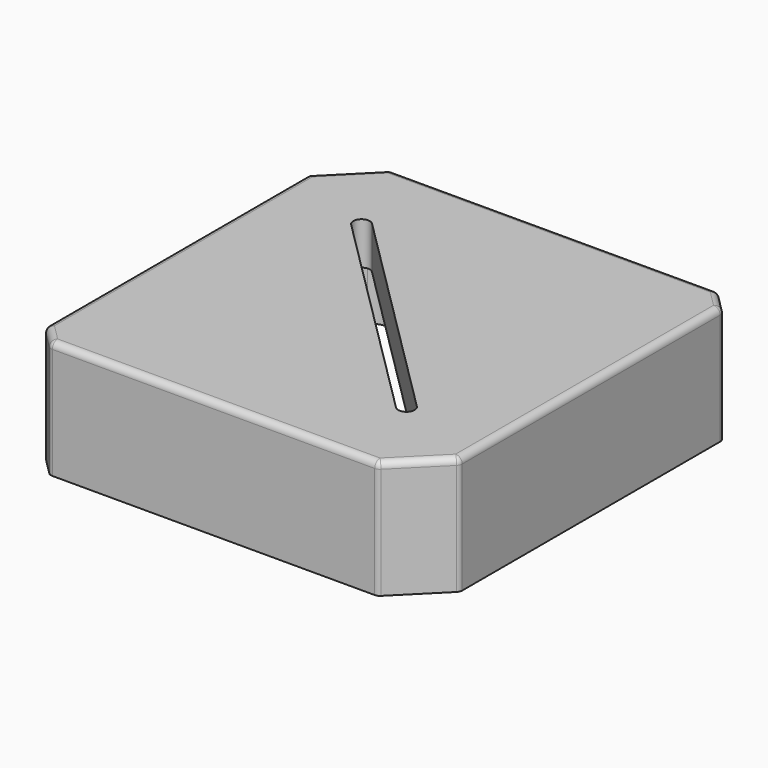
from build123d import *

# Parameters (mm, degrees)
F1_DEPTH = 13
F2_DEPTH = 36
F3_DEPTH = 3
F4_R     = 2
F6_D     = 12
F6_DEPTH = 12
F6_TIP   = 3.6051637142
F7_ANGLE = 180


with BuildPart() as f1:
    # F0 (on Top) → F1 (new body)
    with BuildSketch(Plane.XY):
        with BuildLine():
            ThreePointArc((29.5146428337, 10), (31.1042871443, 10.6969432761), (32.4494111737, 11.7939119674))
            Line((32.4494111737, 11.7939119674), (108.2332133573, 87.2420420008))
            ThreePointArc((108.2332133573, 87.2420420008), (109.5407255907, 89.1918380595), (110, 91.4940891162))
            Line((110, 91.4940891162), (110, 99.372583002))
            ThreePointArc((110, 99.372583002), (109.5432771951, 101.6686835962), (108.2426406871, 103.6152236891))
            Line((108.2426406871, 103.6152236891), (103.6152236891, 108.2426406871))
            ThreePointArc((103.6152236891, 108.2426406871), (101.6686835962, 109.5432771951), (99.372583002, 110))
            Line((99.372583002, 110), (12, 110))
            ThreePointArc((12, 110), (10.5857864376, 109.4142135624), (10, 108))
            Line((10, 108), (10, 20.627416998))
            ThreePointArc((10, 20.627416998), (10.4567228049, 18.3313164038), (11.7573593129, 16.3847763109))
            Line((11.7573593129, 16.3847763109), (16.3847763109, 11.7573593129))
            ThreePointArc((16.3847763109, 11.7573593129), (18.3313164038, 10.4567228049), (20.627416998, 10))
            Line((20.627416998, 10), (29.5146428337, 10))
        make_face()
        with BuildLine():
            ThreePointArc((91.8982009854, 95.2846255964), (95.433726402, 95.2767779765), (95.4258783418, 91.7412525609))
            Line((95.4258783418, 91.7412525609), (28.1017990146, 24.7153744036))
            ThreePointArc((28.1017990146, 24.7153744036), (24.5662740393, 24.7232224629), (24.5741216582, 28.2587474391))
            Line((24.5741216582, 28.2587474391), (47.6067560594, 51.1893624946))
            Line((47.6067560594, 51.1893624946), (45.5464457109, 53.2588392572))
            ThreePointArc((45.5464457109, 53.2588392572), (45.506735129, 57.5600725399), (49.8074020179, 57.4797669158))
            Line((49.8074020179, 57.4797669158), (51.794521287, 55.3585786904))
            Line((51.794521287, 55.3585786904), (91.8982009854, 95.2846255964))
        make_face(mode=Mode.SUBTRACT)
    extrude(amount=F1_DEPTH)

    # F0 (on Top) → F2 (join)
    with BuildSketch(Plane.XY):
        Polygon((0, 14), (14, 0), (114, 0), (120, 6), (120, 106), (106, 120), (6, 120), (0, 114), align=None)
        with BuildLine():
            Line((108.2332133573, 87.2420420008), (32.4494111737, 11.7939119674))
            ThreePointArc((32.4494111737, 11.7939119674), (31.1042871443, 10.6969432761), (29.5146428337, 10))
            Line((29.5146428337, 10), (20.627416998, 10))
            ThreePointArc((20.627416998, 10), (18.3313164038, 10.4567228049), (16.3847763109, 11.7573593129))
            Line((16.3847763109, 11.7573593129), (11.7573593129, 16.3847763109))
            ThreePointArc((11.7573593129, 16.3847763109), (10.4567228049, 18.3313164038), (10, 20.627416998))
            Line((10, 20.627416998), (10, 108))
            ThreePointArc((10, 108), (10.5857864376, 109.4142135624), (12, 110))
            Line((12, 110), (99.372583002, 110))
            ThreePointArc((99.372583002, 110), (101.6686835962, 109.5432771951), (103.6152236891, 108.2426406871))
            Line((103.6152236891, 108.2426406871), (108.2426406871, 103.6152236891))
            ThreePointArc((108.2426406871, 103.6152236891), (109.5432771951, 101.6686835962), (110, 99.372583002))
            Line((110, 99.372583002), (110, 91.4940891162))
            ThreePointArc((110, 91.4940891162), (109.5407255907, 89.1918380595), (108.2332133573, 87.2420420008))
        make_face(mode=Mode.SUBTRACT)
    extrude(amount=F2_DEPTH)

    # F0 (on Top) → F3 (join)
    with BuildSketch(Plane.XY):
        with BuildLine():
            Line((49.8360901626, 53.4088221213), (51.794521287, 55.3585786904))
            Line((51.794521287, 55.3585786904), (49.8074020179, 57.4797669158))
            ThreePointArc((49.8074020179, 57.4797669158), (45.506735129, 57.5600725399), (45.5464457109, 53.2588392572))
            Line((45.5464457109, 53.2588392572), (47.6067560594, 51.1893624946))
            Line((47.6067560594, 51.1893624946), (49.6280971878, 53.201750418))
            Line((49.6280971878, 53.201750418), (49.8360901626, 53.4088221213))
        make_face()
    extrude(amount=F3_DEPTH)

    # F4
    f4_edges = [f1.edges().sort_by_distance(p)[0] for p in [
        (56, 120, 0),
        (106, 120, 18),
        (120, 106, 18),
        (120, 56, 0),
        (113, 113, 0),
        (117, 3, 0),
        (114, 0, 18),
        (120, 6, 18),
        (64, 0, 0),
        (14, 0, 18),
        (7, 7, 0),
        (0, 14, 18),
        (0, 64, 0),
        (3, 117, 0),
        (0, 114, 18),
        (6, 120, 18),
    ]]
    fillet(f4_edges, radius=F4_R)

    # F6
    with Locations(Plane(origin=(0, 0, 0), x_dir=(0, -1, 0), z_dir=(-1, 0, 0))):
        with Locations((-89, 19.5)):
            Hole(F6_D / 2, depth=F6_DEPTH)
            with Locations((0, 0, -(F6_DEPTH + F6_TIP / 2))):  # 118° drill point
                Cone(0, F6_D / 2, F6_TIP, mode=Mode.SUBTRACT)


with BuildPart() as f1_1:
    # F7: moved
    add(f1.part.rotate(Axis((64, 2, 0), (-1, 0, 0)), F7_ANGLE))


solid = f1_1.part
